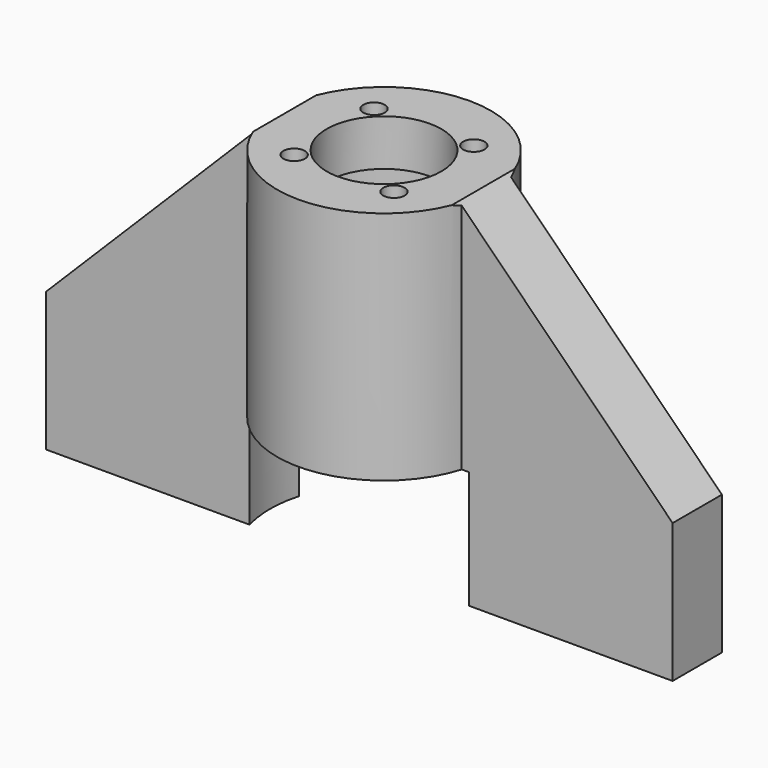
from build123d import *

# Parameters (mm, degrees)
F0_R     = 26.5
F0_R_2   = 3
F0_R_3   = 16.1
F1_DEPTH = 13
F2_DEPTH = 53
F3_SIZE  = 60
F5_DEPTH = 33


with BuildPart() as f1:
    # F0 (on Top) → F1 (new body)
    with BuildSketch(Plane.XY):
        with BuildLine():
            ThreePointArc((28.7271796725, -8.6457589641), (29.6800892028, -4.3694742147), (30, 0))
            ThreePointArc((30, 0), (29.6800892028, 4.3694742147), (28.7271796725, 8.6457589641))
            ThreePointArc((28.7271796725, 8.6457589641), (0, 30), (-28.7271796725, 8.6457589641))
            ThreePointArc((-28.7271796725, 8.6457589641), (-30, 0), (-28.7271796725, -8.6457589641))
            ThreePointArc((-28.7271796725, -8.6457589641), (0, -30), (28.7271796725, -8.6457589641))
        make_face()
        Circle(F0_R, mode=Mode.SUBTRACT)
        Circle(F0_R)
        with Locations((-14, -14)):
            Circle(F0_R_2, mode=Mode.SUBTRACT)
        with Locations((14, -14)):
            Circle(F0_R_2, mode=Mode.SUBTRACT)
        with Locations((-14, 14)):
            Circle(F0_R_2, mode=Mode.SUBTRACT)
        Circle(F0_R_3, mode=Mode.SUBTRACT)
        with Locations((14, 14)):
            Circle(F0_R_2, mode=Mode.SUBTRACT)
        with BuildLine():
            ThreePointArc((28.7271796725, 8.6457589641), (29.6800892028, 4.3694742147), (30, 0))
            ThreePointArc((30, 0), (29.6800892028, -4.3694742147), (28.7271796725, -8.6457589641))
            Line((28.7271796725, -8.6457589641), (87.8872200847, -8.6457589641))
            Line((87.8872200847, -8.6457589641), (87.8872200847, 8.6457589641))
            Line((87.8872200847, 8.6457589641), (28.7271796725, 8.6457589641))
        make_face()
        with BuildLine():
            ThreePointArc((-28.7271796725, -8.6457589641), (-30, 0), (-28.7271796725, 8.6457589641))
            Line((-28.7271796725, 8.6457589641), (-87.8872200847, 8.6457589641))
            Line((-87.8872200847, 8.6457589641), (-87.8872200847, -8.6457589641))
            Line((-87.8872200847, -8.6457589641), (-28.7271796725, -8.6457589641))
        make_face()
    extrude(amount=F1_DEPTH)

    # F0 (on Top) → F2 (join)
    with BuildSketch(Plane.XY):
        with BuildLine():
            ThreePointArc((28.7271796725, -8.6457589641), (29.6800892028, -4.3694742147), (30, 0))
            ThreePointArc((30, 0), (29.6800892028, 4.3694742147), (28.7271796725, 8.6457589641))
            ThreePointArc((28.7271796725, 8.6457589641), (0, 30), (-28.7271796725, 8.6457589641))
            ThreePointArc((-28.7271796725, 8.6457589641), (-30, 0), (-28.7271796725, -8.6457589641))
            ThreePointArc((-28.7271796725, -8.6457589641), (0, -30), (28.7271796725, -8.6457589641))
        make_face()
        Circle(F0_R, mode=Mode.SUBTRACT)
        with BuildLine():
            ThreePointArc((28.7271796725, 8.6457589641), (29.6800892028, 4.3694742147), (30, 0))
            ThreePointArc((30, 0), (29.6800892028, -4.3694742147), (28.7271796725, -8.6457589641))
            Line((28.7271796725, -8.6457589641), (87.8872200847, -8.6457589641))
            Line((87.8872200847, -8.6457589641), (87.8872200847, 8.6457589641))
            Line((87.8872200847, 8.6457589641), (28.7271796725, 8.6457589641))
        make_face()
        with BuildLine():
            ThreePointArc((-28.7271796725, -8.6457589641), (-30, 0), (-28.7271796725, 8.6457589641))
            Line((-28.7271796725, 8.6457589641), (-87.8872200847, 8.6457589641))
            Line((-87.8872200847, 8.6457589641), (-87.8872200847, -8.6457589641))
            Line((-87.8872200847, -8.6457589641), (-28.7271796725, -8.6457589641))
        make_face()
    extrude(amount=-F2_DEPTH)

    # F3
    f3_edges = [f1.edges().sort_by_distance(p)[0] for p in [
        (87.88722, 0, 13),
        (-87.88722, 0, 13),
    ]]
    chamfer(f3_edges, length=F3_SIZE)

    # F4 (on face) → F5 (join)
    with BuildSketch(Plane(origin=(0, 0, -53), x_dir=(1, 0, 0), z_dir=(0, 0, -1))):
        with BuildLine():
            ThreePointArc((-30.8099148317, -8.6457589641), (-32, 0), (-30.8099148317, 8.6457589641))
            Line((-30.8099148317, 8.6457589641), (-87.8872200847, 8.6457589641))
            Line((-87.8872200847, 8.6457589641), (-87.8872200847, -8.6457589641))
            Line((-87.8872200847, -8.6457589641), (-30.8099148317, -8.6457589641))
        make_face()
        with BuildLine():
            ThreePointArc((30.8099148317, 8.6457589641), (31.7010825889, 4.3636409904), (32, 0))
            ThreePointArc((32, 0), (31.7010825889, -4.3636409904), (30.8099148317, -8.6457589641))
            Line((30.8099148317, -8.6457589641), (87.8872200847, -8.6457589641))
            Line((87.8872200847, -8.6457589641), (87.8872200847, 8.6457589641))
            Line((87.8872200847, 8.6457589641), (30.8099148317, 8.6457589641))
        make_face()
    extrude(amount=F5_DEPTH)


solid = f1.part
